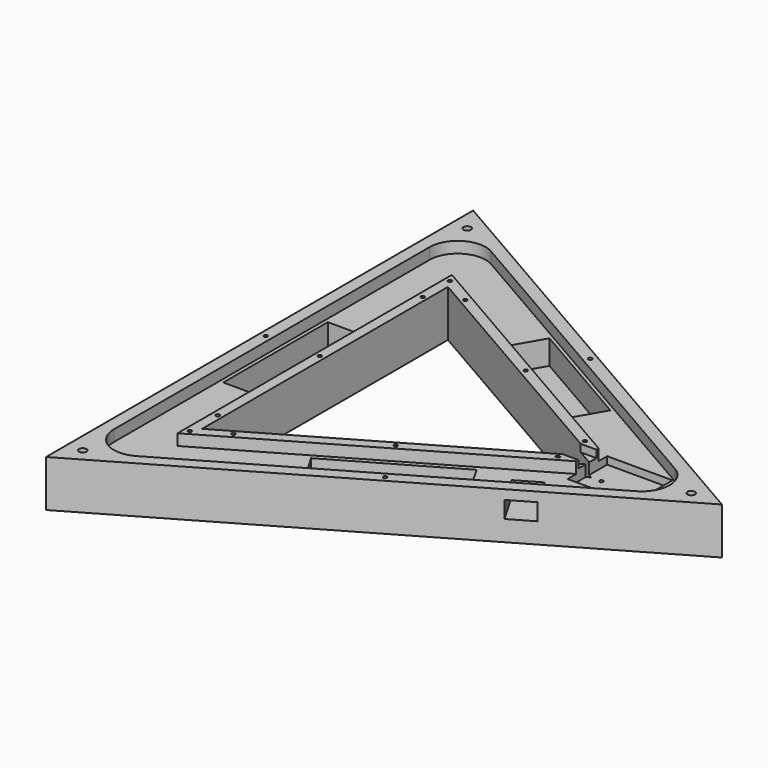
from build123d import *

# Parameters (mm, degrees)
PRISM003_DEPTH         = 6
PRISM002_DEPTH         = 6
BOX004_W               = 10
BOX004_H               = 12
BOX004_DEPTH           = 4
BOX003_W               = 35
BOX003_H               = 26.5
BOX003_DEPTH           = 10
BOX002_W               = 70
BOX002_H               = 19
BOX002_DEPTH           = 19
BOX002_PLACEMENT_ANGLE = 30
BOX001_W               = 70
BOX001_H               = 19
BOX001_DEPTH           = 19
BOX001_PLACEMENT_ANGLE = 90.0000000001
BOX_W                  = 70
BOX_H                  = 19
BOX_DEPTH              = 19
BOX_PLACEMENT_ANGLE    = 30
PRISM001_DEPTH         = 25
PRISM_DEPTH            = 25
FILLET_R               = 15
SKETCH001_R            = 2
POCKET_DEPTH           = 782.7773522307
POLARPATTERN_COUNT     = 3
POCKET001_DEPTH        = 3
SKETCH002_R            = 1
POCKET002_DEPTH        = 782.7773522307
POLARPATTERN001_COUNT  = 3
SKETCH004_R            = 1
POCKET003_DEPTH        = 782.7773522307
POLARPATTERN002_COUNT  = 3
POLARPATTERN003_COUNT  = 3
SKETCH005_R            = 1
POCKET004_DEPTH        = 782.7773522307
POLARPATTERN004_COUNT  = 3
POCKET005_DEPTH        = 22.001
SKETCH007_W            = 14
SKETCH007_H            = 9
POCKET006_DEPTH        = 20


with BuildPart() as prism003:
    # Prism003 → Prism003 (new body)
    with BuildSketch(Plane.XY.offset(13)):
        Polygon((106, 0), (-53, 91.7986928012), (-53, -91.7986928012), align=None)
    extrude(amount=PRISM003_DEPTH)


with BuildPart() as cut006:
    # Prism002 → Prism002 (new body)
    with BuildSketch(Plane.XY.offset(13)):
        Polygon((152, 0), (-76, 131.6358613752), (-76, -131.6358613752), align=None)
    extrude(amount=PRISM002_DEPTH)

    # Cut006: cut Prism003
    add(prism003.part, mode=Mode.SUBTRACT)


with BuildPart() as box004:
    # Box004 → Box004 (new body)
    with BuildSketch(Plane(origin=(84, -6, 15), x_dir=(1, 0, 0), z_dir=(0, 0, 1))):
        with Locations((5, 6)):
            Rectangle(BOX004_W, BOX004_H)
    extrude(amount=BOX004_DEPTH)


with BuildPart() as box003:
    # Box003 → Box003 (new body)
    with BuildSketch(Plane(origin=(93, -13.3, 9), x_dir=(1, 0, 0), z_dir=(0, 0, 1))):
        with Locations((17.5, 13.25)):
            Rectangle(BOX003_W, BOX003_H)
    extrude(amount=BOX003_DEPTH)


with BuildPart() as box002:
    # Box002 → Box002 (new body)
    with BuildSketch(Plane.XY):
        with Locations((35, 9.5)):
            Rectangle(BOX002_W, BOX002_H)
    extrude(amount=BOX002_DEPTH)


with BuildPart() as box002_1:
    # Box002 placement: moved
    add(box002.part.moved(Location((7, -82, 0))).rotate(Axis((7, -82, 0), (0, 0, 1)), BOX002_PLACEMENT_ANGLE))


with BuildPart() as box001:
    # Box001 → Box001 (new body)
    with BuildSketch(Plane.XY):
        with Locations((35, 9.5)):
            Rectangle(BOX001_W, BOX001_H)
    extrude(amount=BOX001_DEPTH)


with BuildPart() as box001_1:
    # Box001 placement: moved
    add(box001.part.moved(Location((-55, -35, 0))).rotate(Axis((-55, -35, 0), (0, 0, 1)), BOX001_PLACEMENT_ANGLE))


with BuildPart() as box:
    # Box → Box (new body)
    with BuildSketch(Plane.XY):
        with Locations((35, 9.5)):
            Rectangle(BOX_W, BOX_H)
    extrude(amount=BOX_DEPTH)


with BuildPart() as box_1:
    # Box placement: moved
    add(box.part.moved(Location((-2, 65, 0))).rotate(Axis((-2, 65, 0), (0, 0, -1)), BOX_PLACEMENT_ANGLE))


with BuildPart() as prism001:
    # Prism001 → Prism001 (new body)
    with BuildSketch(Plane.XY.offset(-6)):
        Polygon((95, 0), (-47.5, 82.2724133595), (-47.5, -82.2724133595), align=None)
    extrude(amount=PRISM001_DEPTH)


with BuildPart() as body:
    # Prism → Prism (new body)
    with BuildSketch(Plane.XY.offset(-6)):
        Polygon((165, 0), (-82.5, 142.8941916244), (-82.5, -142.8941916244), align=None)
    extrude(amount=PRISM_DEPTH)

    # Cut: cut Prism001
    add(prism001.part, mode=Mode.SUBTRACT)

    # Cut001: cut Box
    add(box_1.part, mode=Mode.SUBTRACT)

    # Cut002: cut Box001
    add(box001_1.part, mode=Mode.SUBTRACT)

    # Cut003: cut Box002
    add(box002_1.part, mode=Mode.SUBTRACT)

    # Cut004: cut Box003
    add(box003.part, mode=Mode.SUBTRACT)

    # Cut005: cut Box004
    add(box004.part, mode=Mode.SUBTRACT)

    # Cut007: cut Cut006
    add(cut006.part, mode=Mode.SUBTRACT)

    # Fillet
    fillet_edges = [body.edges().sort_by_distance(p)[0] for p in [
        (152, 0, 16),
        (-76, 131.635861, 16),
        (-76, -131.635861, 16),
    ]]
    fillet(fillet_edges, radius=FILLET_R)

    # Sketch001 (on Face1 of BaseFeature) → Pocket (cut, through all)
    with BuildSketch(Plane.XY.offset(19)):
        with Locations((148.549835, 0)):
            Circle(SKETCH001_R)
    pocket = extrude(amount=-POCKET_DEPTH, mode=Mode.SUBTRACT)

    # PolarPattern: Pocket ×3 about axis
    polarpattern_axis = Axis((0, 0, 19), (0, 0, 1))
    for i in range(1, POLARPATTERN_COUNT):
        add(pocket.rotate(polarpattern_axis, i * 360 / POLARPATTERN_COUNT), mode=Mode.SUBTRACT)

    # Sketch003 (on Face14 of PolarPattern) → Pocket001 (cut)
    with BuildSketch(Plane(origin=(0, 0, -6), x_dir=(1, 0, 0), z_dir=(0, 0, -1))):
        Polygon((-70.5, 122.1095819336), (141, 0), (-70.5, -122.1095819336), align=None)
        Polygon((-59.5, -103.0570230503), (-59.5, 103.0570230503), (119, 0), align=None, mode=Mode.SUBTRACT)
    extrude(amount=-POCKET001_DEPTH, mode=Mode.SUBTRACT)

    # Sketch002 (on Face39 of PolarPattern) → Pocket002 (cut, through all)
    with BuildSketch(Plane.XY.offset(19)):
        with Locations((-50.25, 0)):
            Circle(SKETCH002_R)
        with Locations((-50.25, 87.0355530803)):
            Circle(SKETCH002_R)
    pocket002 = extrude(amount=-POCKET002_DEPTH, mode=Mode.SUBTRACT)

    # PolarPattern001: Pocket002 ×3 about axis
    polarpattern001_axis = Axis((0, 0, 19), (0, 0, 1))
    for i in range(1, POLARPATTERN001_COUNT):
        add(pocket002.rotate(polarpattern001_axis, i * 360 / POLARPATTERN001_COUNT), mode=Mode.SUBTRACT)

    # Sketch004 (on Face40 of PolarPattern001) → Pocket003 (cut, through all)
    with BuildSketch(Plane.XY.offset(19)):
        with Locations((84.4115427319, 9)):
            Circle(SKETCH004_R)
        with Locations((84.4115427319, -9)):
            Circle(SKETCH004_R)
    pocket003 = extrude(amount=-POCKET003_DEPTH, mode=Mode.SUBTRACT)

    # PolarPattern002: Pocket003 ×3 about axis
    polarpattern002_axis = Axis((0, 0, 19), (0, 0, 1))
    for i in range(1, POLARPATTERN002_COUNT):
        add(pocket003.rotate(polarpattern002_axis, i * 360 / POLARPATTERN002_COUNT), mode=Mode.SUBTRACT)

    # PolarPattern003: Pocket002 ×3 about axis
    polarpattern003_axis = Axis((0, 0, 19), (0, 0, 1))
    for i in range(1, POLARPATTERN003_COUNT):
        add(pocket002.rotate(polarpattern003_axis, i * 360 / POLARPATTERN003_COUNT), mode=Mode.SUBTRACT)

    # Sketch005 (on Face1 of PolarPattern003) → Pocket004 (cut, through all)
    with BuildSketch(Plane.XY.offset(19)):
        with Locations((-79.25, 0)):
            Circle(SKETCH005_R)
    pocket004 = extrude(amount=-POCKET004_DEPTH, mode=Mode.SUBTRACT)

    # PolarPattern004: Pocket004 ×3 about axis
    polarpattern004_axis = Axis((0, 0, 19), (0, 0, 1))
    for i in range(1, POLARPATTERN004_COUNT):
        add(pocket004.rotate(polarpattern004_axis, i * 360 / POLARPATTERN004_COUNT), mode=Mode.SUBTRACT)

    # Sketch006 (on Face42 of PolarPattern004) → Pocket005 (cut, through all)
    with BuildSketch(Plane(origin=(0, 0, -3), x_dir=(1, 0, 0), z_dir=(0, 0, -1))):
        with BuildLine():
            ThreePointArc((123, 1.5), (121.5, 0), (123, -1.5))
            Line((123, -1.5), (135, -1.5))
            ThreePointArc((135, -1.5), (136.5, 0), (135, 1.5))
            Line((123, 1.5), (135, 1.5))
        make_face()
    extrude(amount=-POCKET005_DEPTH, mode=Mode.SUBTRACT)

    # Sketch007 (on Face3 of Pocket005) → Pocket006 (cut)
    with BuildSketch(Plane(origin=(41.25, -71.4470958122, 0), x_dir=(0.8660254038, 0.5, 0), z_dir=(0.5, -0.8660254038, 0))):
        with Locations((57.9152, 9.460156)):
            Rectangle(SKETCH007_W, SKETCH007_H)
    extrude(amount=-POCKET006_DEPTH, mode=Mode.SUBTRACT)


solid = body.part
